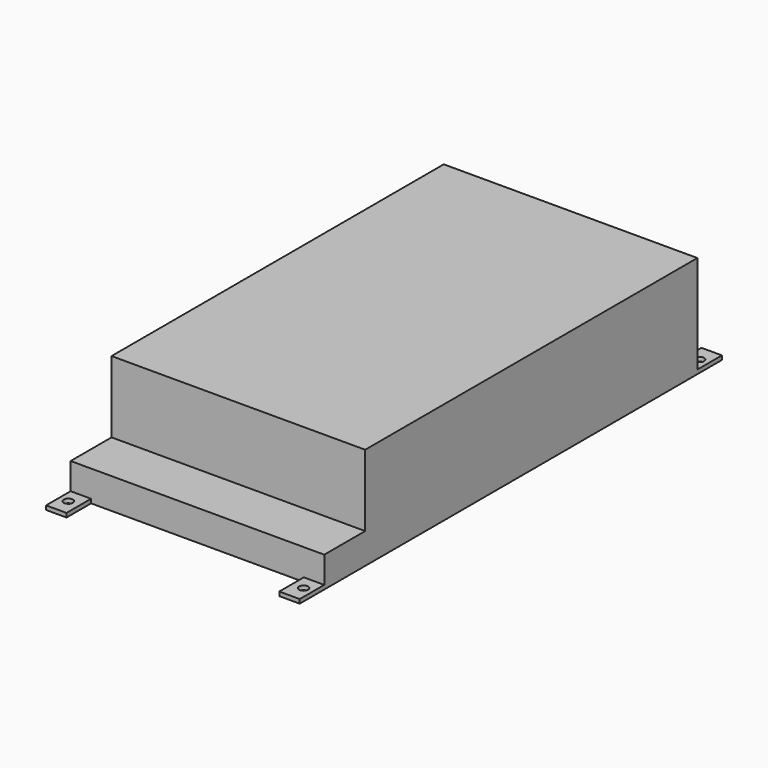
from build123d import *

# Parameters (mm, degrees)
F0_W     = 124
F0_H     = 228
F1_DEPTH = 15
F2_W     = 124
F2_H     = 203
F3_DEPTH = 35
F5_W     = 10
F5_H     = 15
F6_DEPTH = 2
F7_D     = 4.4


with BuildPart() as f1:
    # F0 (on Top) → F1 (new body)
    with BuildSketch(Plane.XY):
        Rectangle(F0_W, F0_H)
    extrude(amount=F1_DEPTH)

    # F2 (on face) → F3 (join)
    with BuildSketch(Plane.XY.offset(15)):
        with Locations((0, 12.5)):
            Rectangle(F2_W, F2_H)
    extrude(amount=F3_DEPTH)

    # F5 (on face) → F6 (join)
    with BuildSketch(Plane(origin=(0, 0, 0), x_dir=(1, 0, 0), z_dir=(0, 0, -1))):
        with Locations((-57, 121.5)):
            Rectangle(F5_W, F5_H)
        with Locations((57, 121.5)):
            Rectangle(F5_W, F5_H)
        with Locations((57, -121.5)):
            Rectangle(F5_W, F5_H)
        with Locations((-57, -121.5)):
            Rectangle(F5_W, F5_H)
    extrude(amount=-F6_DEPTH)

    # F7 (through all)
    with Locations(Plane(origin=(0, 0, 0), x_dir=(1, 0, 0), z_dir=(0, 0, -1))):
        with Locations((57.5, -121), (-57.5, -121), (-57.5, 121), (57.5, 121)):
            Hole(F7_D / 2)


solid = f1.part
